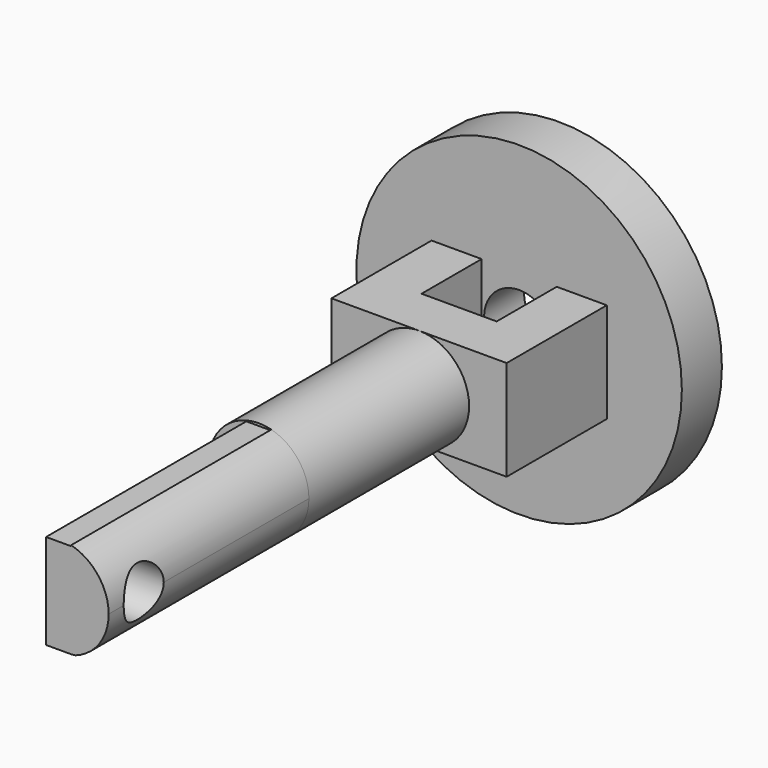
from build123d import *

# Parameters (mm, degrees)
F0_R      = 6.5
F0_W      = 2
F0_H      = 4
F0_R_2    = 1.4
F1_DEPTH  = 2
F2_DEPTH  = 5
F3_W      = 7
F3_H      = 4
F4_DEPTH  = 2
F5_R      = 2
F6_DEPTH  = 8
F7_W      = 1
F7_H      = 3.8
F8_DEPTH  = 10
F9_R      = 1
F10_DEPTH = 3.46
F11_DEPTH = 10
F12_DEPTH = 2.95


with BuildPart() as f1:
    # F0 (on Front) → F1 (new body)
    with BuildSketch(Plane.XZ):
        Circle(F0_R)
        with Locations((-2.5, 0)):
            Rectangle(F0_W, F0_H, mode=Mode.SUBTRACT)
        Circle(F0_R_2, mode=Mode.SUBTRACT)
        with Locations((2.5, 0)):
            Rectangle(F0_W, F0_H, mode=Mode.SUBTRACT)
    extrude(amount=F1_DEPTH)

    # F0 (on Front) → F2 (join)
    with BuildSketch(Plane.XZ):
        with Locations((-2.5, 0)):
            Rectangle(F0_W, F0_H)
        with Locations((2.5, 0)):
            Rectangle(F0_W, F0_H)
    extrude(amount=F2_DEPTH)

    # F3 (on face) → F4 (join)
    with BuildSketch(Plane.XZ.offset(5)):
        Rectangle(F3_W, F3_H)
    extrude(amount=F4_DEPTH)

    # F5 (on face) → F6 (join)
    with BuildSketch(Plane.XZ.offset(7)):
        Circle(F5_R)
    extrude(amount=F6_DEPTH)

    # F7 (on face) → F8 (join)
    with BuildSketch(Plane.XZ.offset(15)):
        Rectangle(F7_W, F7_H)
    extrude(amount=F8_DEPTH)

    # F9 (on face) → F10 (cut)
    with BuildSketch(Plane(origin=(-0.5, 0, 0), x_dir=(0, -1, 0), z_dir=(-1, 0, 0))):
        with Locations((23.2482682914, 0)):
            Circle(F9_R)
    extrude(amount=-F10_DEPTH, mode=Mode.SUBTRACT)

    # F7 (on face) → F11 (join)
    with BuildSketch(Plane.XZ.offset(15)):
        with BuildLine():
            Line((0.5, 1.9), (0.5, -1.9))
            Line((0.5, -1.9), (0.667421366, -1.8853510867))
            ThreePointArc((0.667421366, -1.8853510867), (1.633224224, -1.1543736977), (2, 0))
            ThreePointArc((2, 0), (1.5811388301, 1.2247448714), (0.5, 1.9364916731))
            Line((0.5, 1.9364916731), (0.5, 1.9))
        make_face()
    extrude(amount=F11_DEPTH)

    # F12 (cut): a face of the model
    f12_faces = [f1.faces().sort_by_distance(p)[0] for p in [
        (0.5, -23.2482682914, 0),
    ]]
    extrude(f12_faces, amount=-F12_DEPTH, mode=Mode.SUBTRACT)


solid = f1.part
